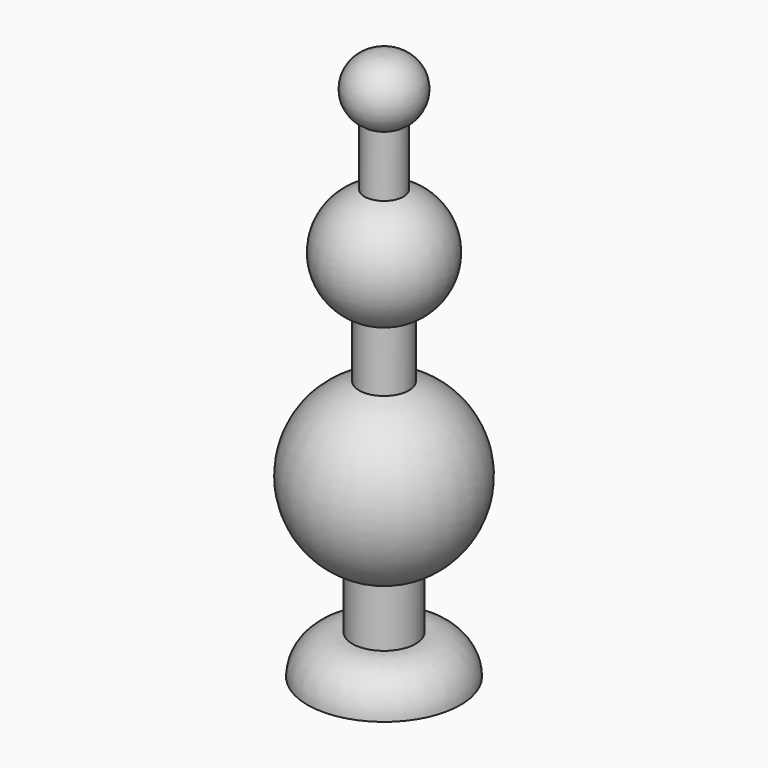
from build123d import *


with BuildPart() as f1:
    # F0 (on Front) → F1 (revolve)
    with BuildSketch(Plane.XZ):
        with BuildLine():
            ThreePointArc((-3.331232, 34.825435), (-11.483414, 24.19557), (-4.235803, 12.929505))
            Line((-4.235803, 12.929505), (-4.235803, 5.245274))
            ThreePointArc((-4.235803, 5.245274), (-8.415597, 3.965251), (-10.255685, 0))
            Line((-10.255685, 0), (0, 0))
            Line((0, 0), (0, 12.181557))
            ThreePointArc((0, 12.181557), (-11.384775, 23.714983), (0, 35.248409))
            Line((0, 35.248409), (0, 73.520431))
            ThreePointArc((0, 73.520431), (-4.547893, 70.620795), (-2.603047, 65.59001))
            Line((-2.603047, 65.59001), (-2.603047, 57.44059))
            ThreePointArc((-2.603047, 57.44059), (-8.060961, 50.429743), (-3.331232, 42.908408))
            Line((-3.331232, 42.908408), (-3.331232, 34.825435))
        make_face()
    revolve(axis=Axis((0, 0, 36.760216), (0, 0, -1)))


solid = f1.part
